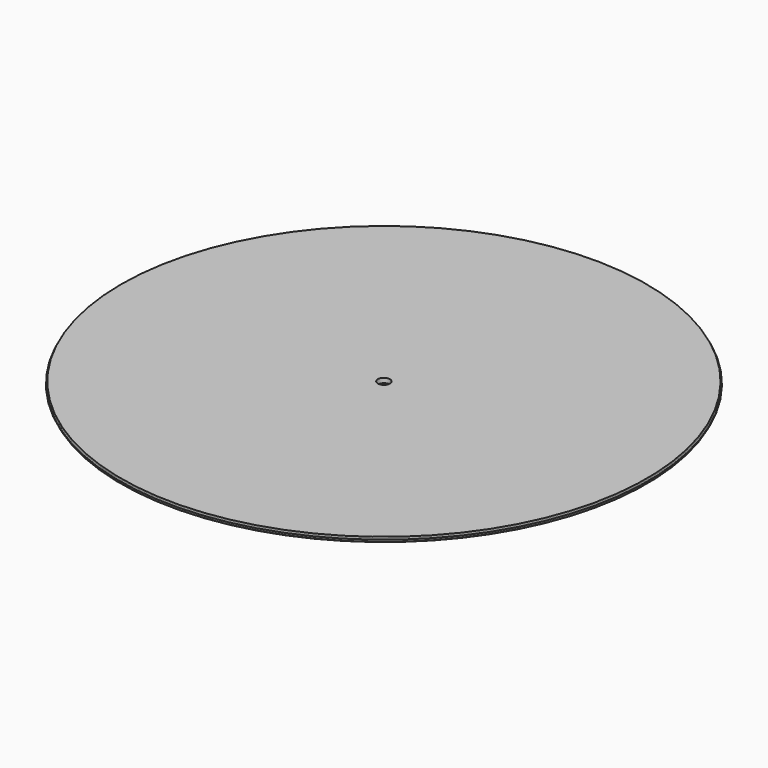
from build123d import *


with BuildPart() as f1:
    # F0 (on Front) → F1 (revolve)
    with BuildSketch(Plane.XZ):
        with BuildLine():
            Line((-20.309017, 6.838791), (-20.181025, 6.838791))
            Line((-20.181025, 6.838791), (-3.5, 6.838791))
            Line((-3.5, 6.838791), (-3.5, 9.538791))
            Line((-3.5, 9.538791), (-20.181025, 9.538791))
            Line((-20.181025, 9.538791), (-20.309017, 9.538791))
            Line((-20.309017, 9.538791), (-152.104487, 9.538791))
            Line((-152.104487, 9.538791), (-152.233252, 8.802641))
            ThreePointArc((-152.233252, 8.802641), (-152.404118, 8.505989), (-152.725774, 8.388791))
            Line((-152.725774, 8.388791), (-152.725774, 7.988791))
            ThreePointArc((-152.725774, 7.988791), (-152.404118, 7.871594), (-152.233252, 7.574942))
            Line((-152.233252, 7.574942), (-152.104487, 6.838791))
            Line((-152.104487, 6.838791), (-20.309017, 6.838791))
        make_face()
    revolve(axis=Axis((0, 0, -43.787105), (0, 0, -1)))


solid = f1.part
